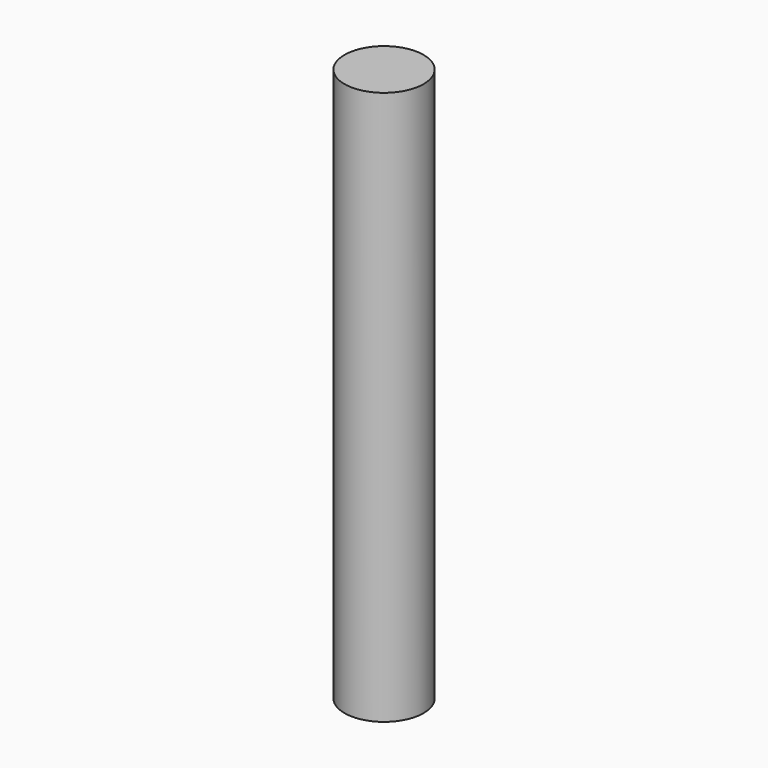
from build123d import *

# Parameters (mm, degrees)
F0_R     = 6.35
F1_DEPTH = 88.9


with BuildPart() as f1:
    # F0 (on Top) → F1 (new body)
    with BuildSketch(Plane.XY):
        with Locations((-1e-06, 0.300789)):
            Circle(F0_R)
    extrude(amount=F1_DEPTH)


solid = f1.part
